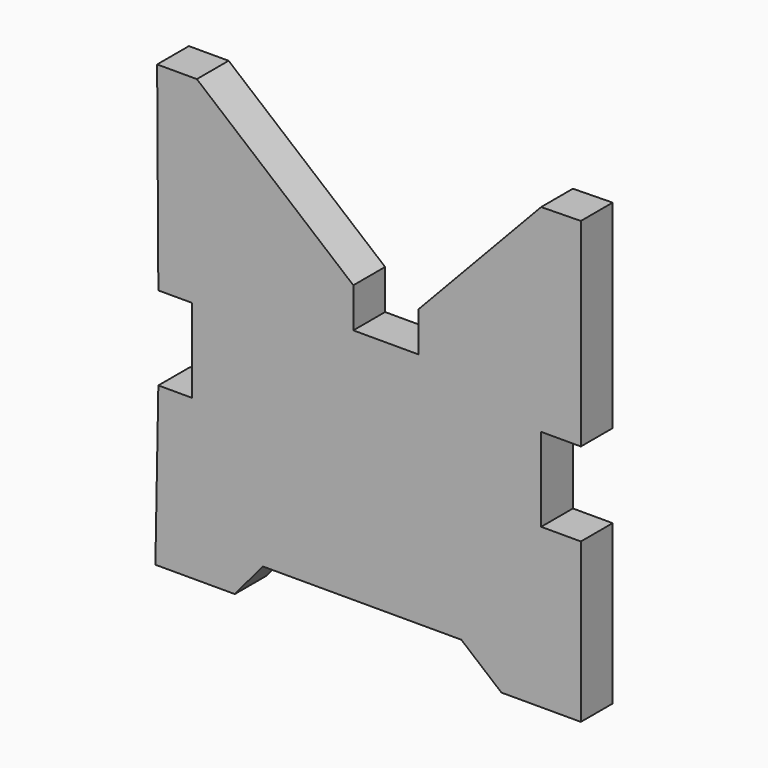
from build123d import *

# Parameters (mm, degrees)
F1_DEPTH = 25.4


with BuildPart() as f1:
    # F0 (on Front) → F1 (new body)
    with BuildSketch(Plane.XZ):
        Polygon((-141.735665, 180.479462), (-167.135665, 180.479462), (-166.354978, 53.481861), (-144.695416, 53.481861), (-144.695416, 0), (-166.354978, 0), (-168.257011, -101.582195), (-117.457011, -101.582195), (-99.588025, -80.172949), (27.411975, -80.172949), (53.062889, -101.582195), (103.862889, -101.582195), (103.862889, 0.017805), (78.466383, 0.017805), (78.466383, 53.481861), (103.862889, 53.481861), (103.862889, 180.481861), (78.466383, 180.060569), (0, 96.949097), (0, 71.549097), (-41.656, 71.549097), (-41.656, 96.949097), align=None)
    extrude(amount=F1_DEPTH)


solid = f1.part
